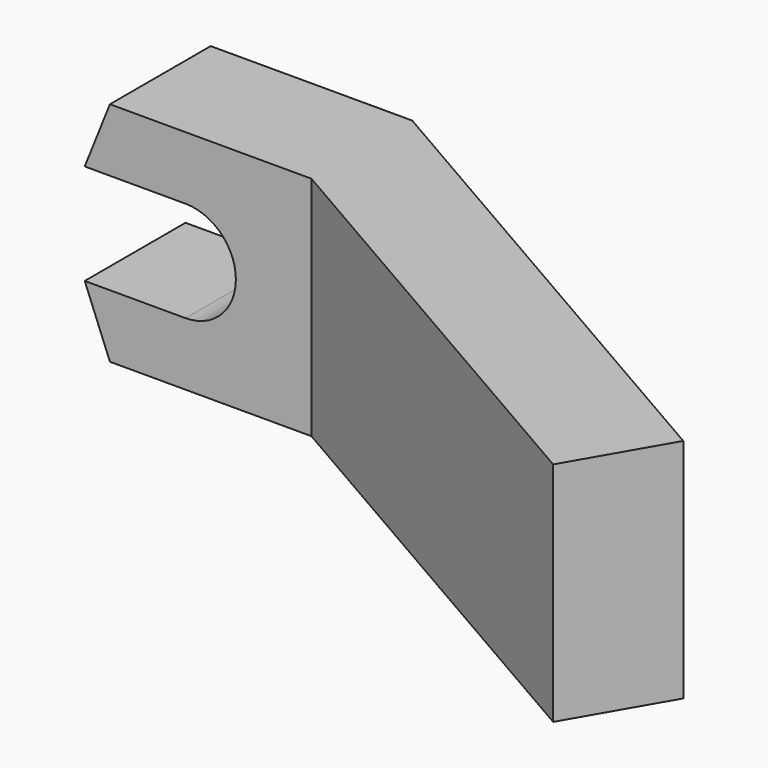
from build123d import *

# Parameters (mm, degrees)
F1_DEPTH = 5
F4_DEPTH = 9


with BuildPart() as f1:
    # F0 (on Front) → F1 (new body)
    with BuildSketch(Plane.XZ):
        with BuildLine():
            ThreePointArc((0, 2), (2, 0), (0, -2))
            Line((0, -2), (-4, -2))
            Line((-4, -2), (-3, -4.5))
            Line((-3, -4.5), (5, -4.5))
            Line((5, -4.5), (5, 4.5))
            Line((5, 4.5), (-3, 4.5))
            Line((-3, 4.5), (-4, 2))
            Line((-4, 2), (0, 2))
        make_face()
    extrude(amount=F1_DEPTH)

    # F3 (on face) → F4 (join, through all)
    with BuildSketch(Plane(origin=(0, 0, -4.5), x_dir=(1, 0, 0), z_dir=(0, 0, -1))):
        Polygon((5, 5), (5, 0), (25, 11.547005), (22.834936, 15.297005), align=None)
    extrude(amount=-F4_DEPTH)


solid = f1.part
